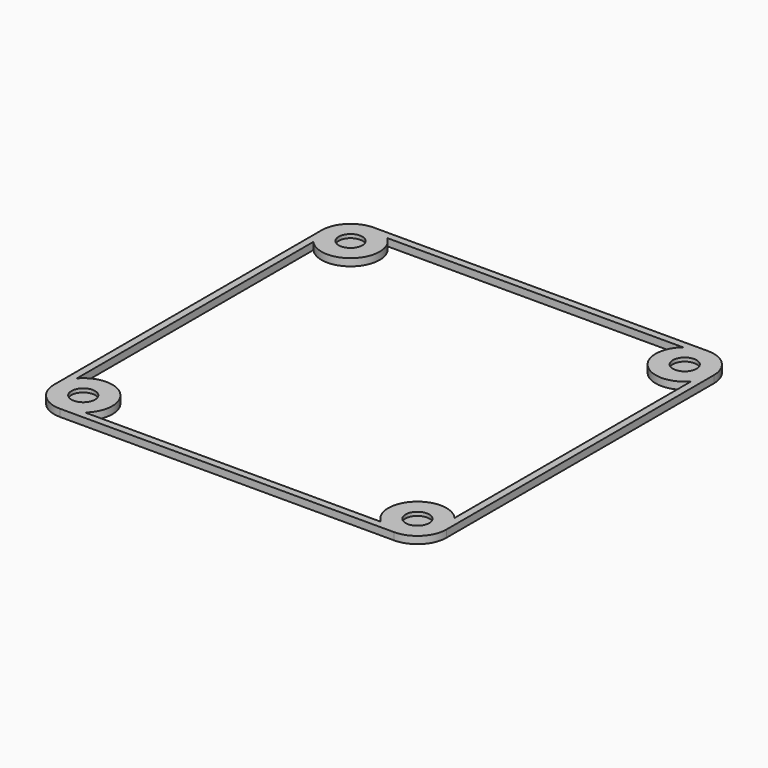
from build123d import *

# Parameters (mm, degrees)
SKETCH123_W     = 108
SKETCH123_H     = 108
PAD049_DEPTH    = 2
FILLET008_R     = 8
SKETCH122_R     = 3.25
POCKET047_DEPTH = 1
POCKET046_DEPTH = 2.001


with BuildPart() as part:
    # Sketch123 → Pad049 (new body)
    with BuildSketch(Plane.XY):
        with Locations((54, 54)):
            Rectangle(SKETCH123_W, SKETCH123_H)
    extrude(amount=PAD049_DEPTH)

    # Fillet008
    fillet008_edges = [part.edges().sort_by_distance(p)[0] for p in [
        (108, 0, 1),
        (108, 108, 1),
        (0, 108, 1),
        (0, 0, 1),
    ]]
    fillet(fillet008_edges, radius=FILLET008_R)

    # Sketch122 (on Face5 of Fillet008) → Pocket047 (cut)
    with BuildSketch(Plane.XY.offset(2)):
        with Locations((8, 8)):
            Circle(SKETCH122_R)
        with Locations((100, 8)):
            Circle(SKETCH122_R)
        with Locations((100, 100)):
            Circle(SKETCH122_R)
        with Locations((8, 100)):
            Circle(SKETCH122_R)
    extrude(amount=-POCKET047_DEPTH, mode=Mode.SUBTRACT)

    # Sketch124 (on Face5 of Pocket047) → Pocket046 (cut, through all)
    with BuildSketch(Plane.XY.offset(2)):
        with BuildLine():
            Line((2, 94.708497), (2, 13.291503))
            ThreePointArc((13.291503, 2), (13.655204, 13.655204), (2, 13.291503))
            Line((13.291503, 2), (94.708497, 2))
            ThreePointArc((106, 13.291503), (94.343146, 13.656854), (94.708497, 2))
            Line((106, 94.708497), (106, 13.291503))
            ThreePointArc((94.708497, 106), (94.342737, 94.342737), (106, 94.708497))
            Line((13.291503, 106), (94.708497, 106))
            ThreePointArc((2, 94.708497), (13.656854, 94.343146), (13.291503, 106))
        make_face()
    extrude(amount=-POCKET046_DEPTH, mode=Mode.SUBTRACT)


with BuildPart() as part_1:
    # Body021 placement: moved
    add(part.part.moved(Location((0, 0, 100))))


solid = part_1.part
